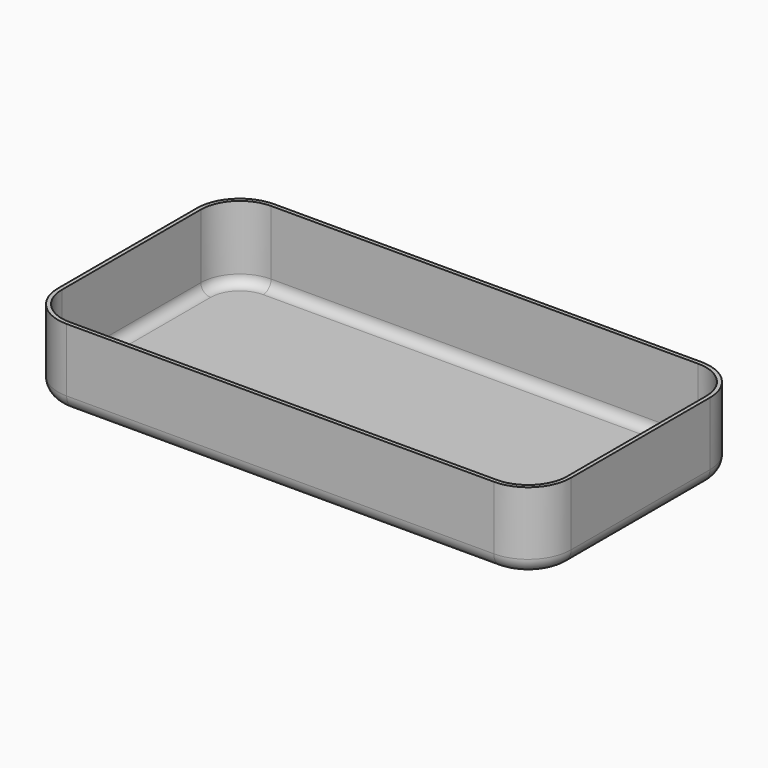
from build123d import *

# Parameters (mm, degrees)
F0_W     = 52.6
F0_H     = 26.6
F0_W_2   = 51.8
F0_H_2   = 25.8
F1_DEPTH = 0.4
F2_DEPTH = 8
F3_R     = 4
F4_R     = 4.4
F5_R     = 1
F6_R     = 1.5


with BuildPart() as f1:
    # F0 (on Top) → F1 (new body)
    with BuildSketch(Plane.XY):
        Rectangle(F0_W, F0_H)
        Rectangle(F0_W_2, F0_H_2, mode=Mode.SUBTRACT)
        Rectangle(F0_W_2, F0_H_2)
    extrude(amount=F1_DEPTH)

    # F0 (on Top) → F2 (join)
    with BuildSketch(Plane.XY):
        Rectangle(F0_W, F0_H)
        Rectangle(F0_W_2, F0_H_2, mode=Mode.SUBTRACT)
    extrude(amount=F2_DEPTH)

    # F3
    f3_edges = [f1.edges().sort_by_distance(p)[0] for p in [
        (-25.9, 12.9, 4.2),
        (25.9, 12.9, 4.2),
        (25.9, -12.9, 4.2),
        (-25.9, -12.9, 4.2),
    ]]
    fillet(f3_edges, radius=F3_R)

    # F4
    f4_edges = [f1.edges().sort_by_distance(p)[0] for p in [
        (26.3, 13.3, 4),
        (26.3, -13.3, 4),
        (-26.3, 13.3, 4),
        (-26.3, -13.3, 4),
    ]]
    fillet(f4_edges, radius=F4_R)

    # F5
    f5_edges = [f1.edges().sort_by_distance(p)[0] for p in [
        (0, 12.9, 0.4),
    ]]
    fillet(f5_edges, radius=F5_R)

    # F6
    f6_edges = [f1.edges().sort_by_distance(p)[0] for p in [
        (0, -13.3, 0),
    ]]
    fillet(f6_edges, radius=F6_R)


solid = f1.part
